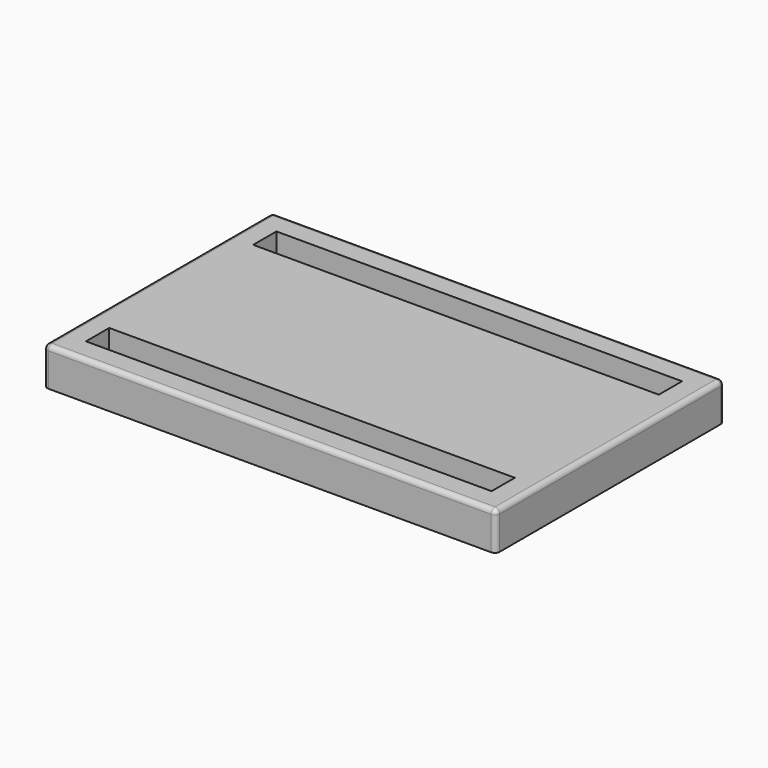
from build123d import *

# Parameters (mm, degrees)
F0_W     = 95
F0_H     = 60
F1_DEPTH = 8
F2_W     = 85.2
F2_H     = 6.1
F3_DEPTH = 25
F4_R     = 1


with BuildPart() as f1:
    # F0 (on Top) → F1 (new body)
    with BuildSketch(Plane.XY):
        with Locations((47.5, 30)):
            Rectangle(F0_W, F0_H)
    extrude(amount=F1_DEPTH)

    # F2 (on face) → F3 (cut)
    with BuildSketch(Plane.XY.offset(8)):
        with Locations((47.5, 51.95)):
            Rectangle(F2_W, F2_H)
        with Locations((47.5, 8.05)):
            Rectangle(F2_W, F2_H)
    extrude(amount=-F3_DEPTH, mode=Mode.SUBTRACT)

    # F4
    f4_edges = [f1.edges().sort_by_distance(p)[0] for p in [
        (0, 60, 4),
        (0, 0, 4),
        (95, 0, 4),
        (95, 60, 4),
        (0, 30, 8),
        (47.5, 0, 8),
        (95, 30, 8),
        (47.5, 60, 8),
    ]]
    fillet(f4_edges, radius=F4_R)


solid = f1.part
